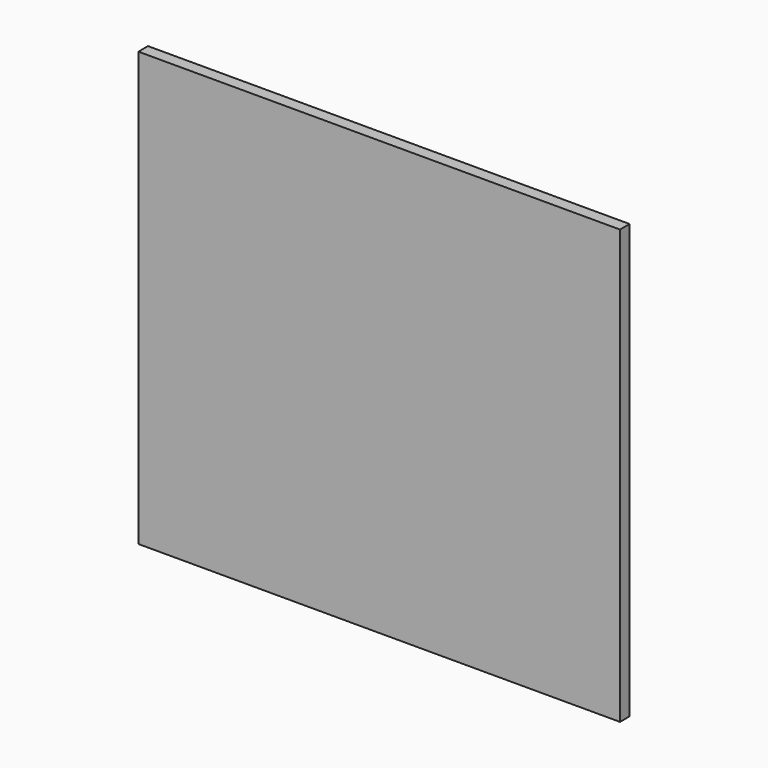
from build123d import *

# Parameters (mm, degrees)
SKETCH_W  = 800
SKETCH_H  = 720
PAD_DEPTH = 20


with BuildPart() as part:
    # Sketch → Pad (new body)
    with BuildSketch(Plane.XZ):
        Rectangle(SKETCH_W, SKETCH_H)
    extrude(amount=PAD_DEPTH)


solid = part.part
